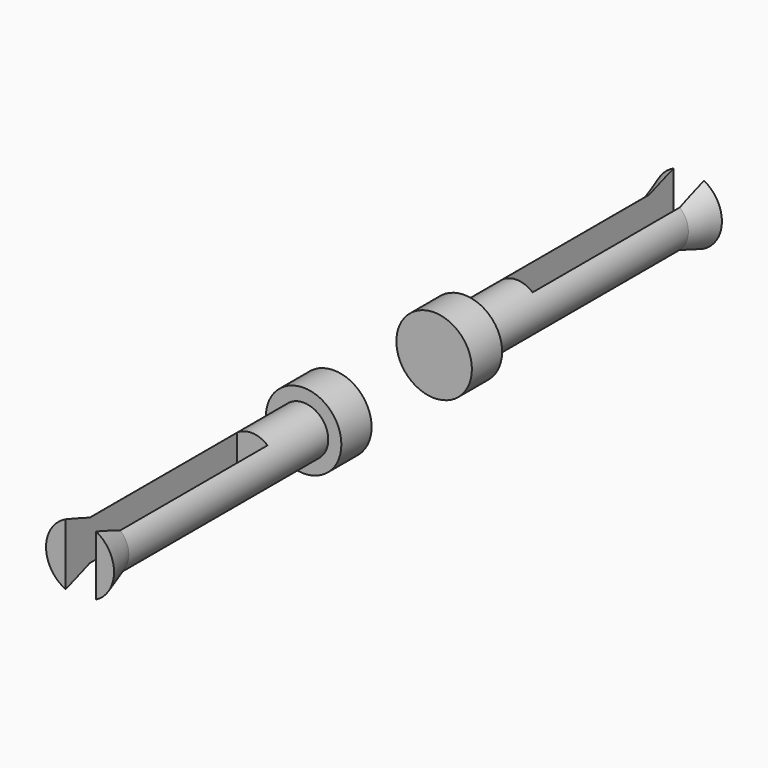
from build123d import *

# Parameters (mm, degrees)
F2_W          = 1.025399717
F2_H          = 7.9063717276
F3_DEPTH      = 1.271
F3_DEPTH_BACK = 25.4


with BuildPart() as f1:
    # F0 (on Top) → F1 (revolve)
    with BuildSketch(Plane.XY):
        Polygon((0, 12.7763244778), (0, 2.1083244778), (1.27, 2.1083244778), (1.27, 3.3783244778), (0.8288369562, 3.3783244778), (0.8288369562, 11.7603244778), (0.8288369562, 12.7763244778), align=None)
        Polygon((1.1440247763, 12.7763244778), (0.8288369562, 12.7763244778), (0.8288369562, 11.7603244778), align=None)
    revolve(axis=Axis((0, 7.4423244778, 0), (0, -1, 0)))

    # F2 (on Top) → F3 (cut, two sides)
    with BuildSketch(Plane.XY) as f3_sk:
        with Locations((0.0281461107, 9.524891153)):
            Rectangle(F2_W, F2_H)
    extrude(amount=-F3_DEPTH, mode=Mode.SUBTRACT)
    extrude(f3_sk.sketch, amount=F3_DEPTH_BACK, mode=Mode.SUBTRACT)


with BuildPart() as f4_1:
    # F4: instance of F1
    add(f1.part.mirror(Plane.XZ))


solid = Compound([f1.part, f4_1.part])
